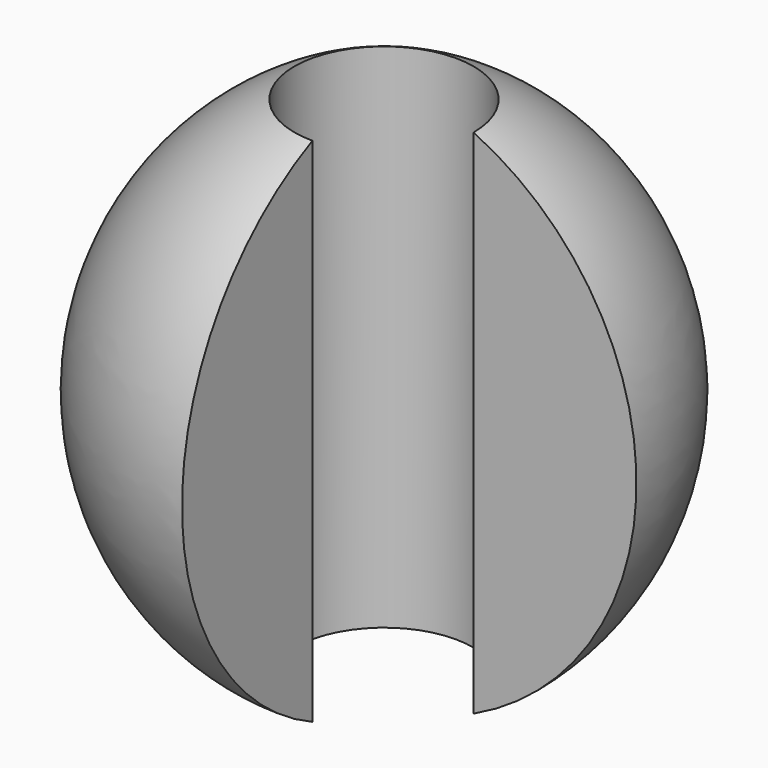
from build123d import *

# Parameters (mm, degrees)
F1_ANGLE = 270
F2_R     = 26.32542
F3_DEPTH = 165.101


with BuildPart() as f1:
    # F0 (on Right) → F1 (revolve)
    with BuildSketch(Plane.YZ):
        with BuildLine():
            Line((0, -165.1), (0, 0))
            ThreePointArc((0, 0), (-74.241529, -82.55), (0, -165.1))
        make_face()
    revolve(axis=Axis((0, 0, -82.55), (0, 0, -1)), revolution_arc=F1_ANGLE)

    # F2 (on Top) → F3 (cut, through all)
    with BuildSketch(Plane.XY):
        Circle(F2_R)
    extrude(amount=-F3_DEPTH, mode=Mode.SUBTRACT)


solid = f1.part
